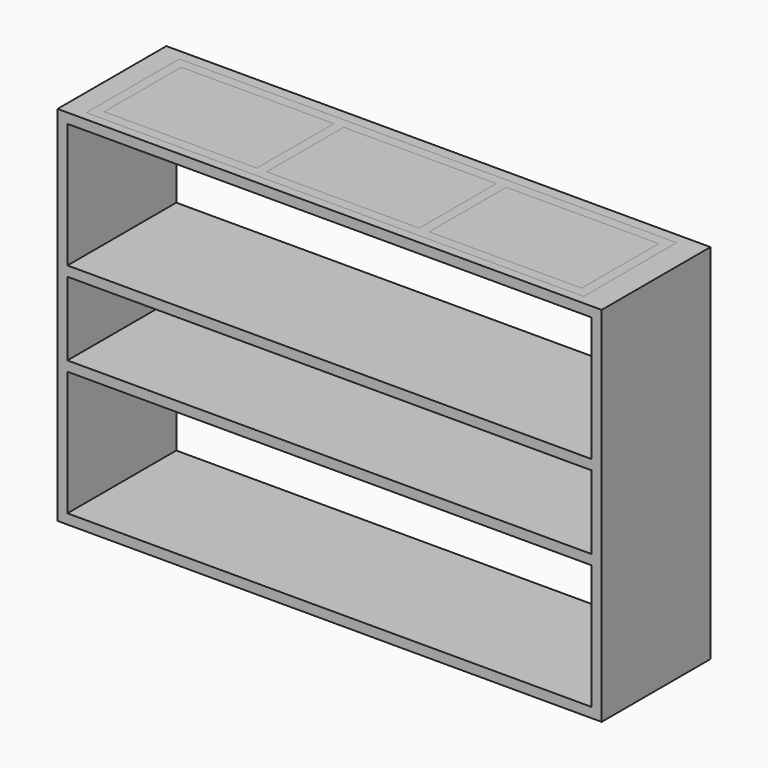
from build123d import *

# Parameters (mm, degrees)
F1_DEPTH = 304.8
F2_W     = 1114.425
F2_H     = 260.35
F2_W_2   = 341.84082
F2_H_2   = 215.9
F2_W_3   = 341.84336
F3_DEPTH = 6.35
F4_DEPTH = 6.35


with BuildPart() as f1:
    # F0 (on Front) → F1 (new body)
    with BuildSketch(Plane.XZ):
        Polygon((578.282658, 330.536146), (600.507658, 330.536146), (600.507658, 352.761146), (578.282658, 352.761146), (-558.367342, 352.761146), (-596.467342, 352.761146), (-618.692342, 352.761146), (-618.692342, 330.536146), (-596.467342, 330.536146), (-558.367342, 330.536146), align=None)
        Polygon((-618.692342, -437.813854), (-596.467342, -437.813854), (-596.467342, -158.413854), (-596.467342, -136.188854), (-596.467342, 28.911146), (-596.467342, 51.136146), (-596.467342, 330.536146), (-618.692342, 330.536146), align=None)
        Polygon((578.282658, -437.813854), (600.507658, -437.813854), (600.507658, 330.536146), (578.282658, 330.536146), (578.282658, 51.136146), (578.282658, 28.911146), (578.282658, -136.188854), (578.282658, -158.413854), align=None)
        Polygon((578.282658, 28.911146), (578.282658, 51.136146), (540.182658, 51.136146), (-596.467342, 51.136146), (-596.467342, 28.911146), (540.182658, 28.911146), align=None)
        Polygon((-558.367342, -158.413854), (578.282658, -158.413854), (578.282658, -136.188854), (-558.367342, -136.188854), (-596.467342, -136.188854), (-596.467342, -158.413854), align=None)
        Polygon((600.507658, -460.038854), (600.507658, -437.813854), (578.282658, -437.813854), (-596.467342, -437.813854), (-618.692342, -437.813854), (-618.692342, -460.038854), align=None)
    extrude(amount=-F1_DEPTH)

    # F2 (on face) → F3 (cut)
    with BuildSketch(Plane.XY.offset(352.761146)):
        with Locations((-13.219984, 150.495006)):
            Rectangle(F2_W, F2_H)
        with Locations((-377.287074, 150.495006)):
            Rectangle(F2_W_2, F2_H_2, mode=Mode.SUBTRACT)
        with Locations((-13.219984, 150.495006)):
            Rectangle(F2_W_3, F2_H_2, mode=Mode.SUBTRACT)
        with Locations((350.847106, 150.495006)):
            Rectangle(F2_W_2, F2_H_2, mode=Mode.SUBTRACT)
    extrude(amount=-F3_DEPTH, mode=Mode.SUBTRACT)


with BuildPart() as f4:
    # F2 (on face) → F4 (new body)
    with BuildSketch(Plane.XY.offset(352.761146)):
        with Locations((-13.219984, 150.495006)):
            Rectangle(F2_W, F2_H)
        with Locations((-377.287074, 150.495006)):
            Rectangle(F2_W_2, F2_H_2, mode=Mode.SUBTRACT)
        with Locations((-13.219984, 150.495006)):
            Rectangle(F2_W_3, F2_H_2, mode=Mode.SUBTRACT)
        with Locations((350.847106, 150.495006)):
            Rectangle(F2_W_2, F2_H_2, mode=Mode.SUBTRACT)
    extrude(amount=-F4_DEPTH)


solid = Compound([f1.part, f4.part])
